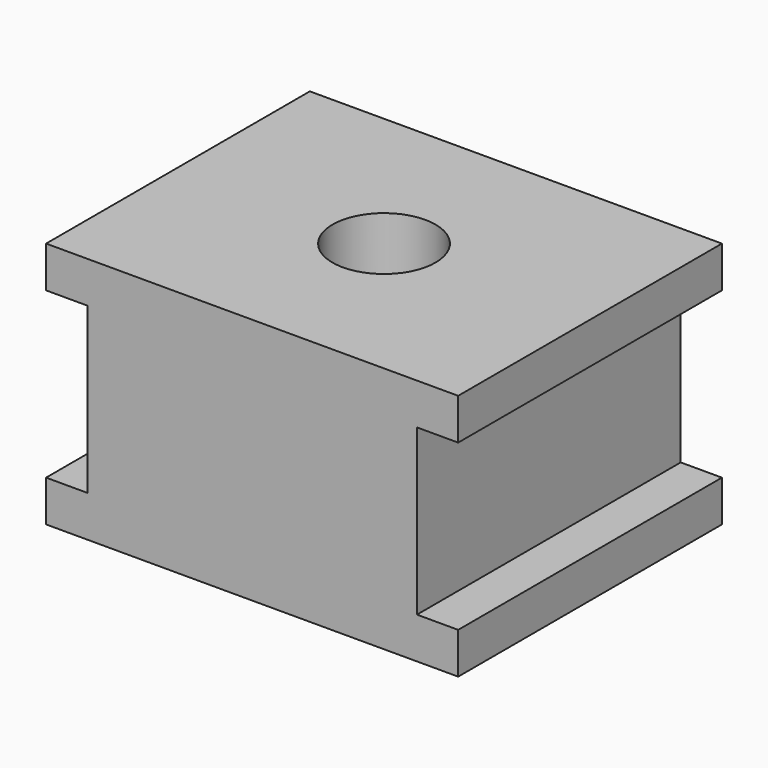
from build123d import *

# Parameters (mm, degrees)
F1_DEPTH = 50.8
F2_R     = 7.9375
F3_DEPTH = 38.101
F4_R     = 7.9375
F5_DEPTH = 12.7


with BuildPart() as f1:
    # F0 (on Front) → F1 (new body)
    with BuildSketch(Plane.XZ):
        Polygon((-31.75, -19.05), (31.75, -19.05), (31.75, -12.7), (25.4, -12.7), (25.4, 12.7), (31.75, 12.7), (31.75, 19.05), (-31.75, 19.05), (-31.75, 12.7), (-25.4, 12.7), (-25.4, -12.7), (-31.75, -12.7), align=None)
    extrude(amount=F1_DEPTH)

    # F2 (on face) → F3 (cut, through all)
    with BuildSketch(Plane.XY.offset(19.05)):
        with Locations((0, -25.4)):
            Circle(F2_R)
    extrude(amount=-F3_DEPTH, mode=Mode.SUBTRACT)

    # F4 (on face) → F5 (cut)
    with BuildSketch(Plane(origin=(0, 0, 0), x_dir=(-1, 0, 0), z_dir=(0, 1, 0))):
        Circle(F4_R)
    extrude(amount=-F5_DEPTH, mode=Mode.SUBTRACT)


solid = f1.part
